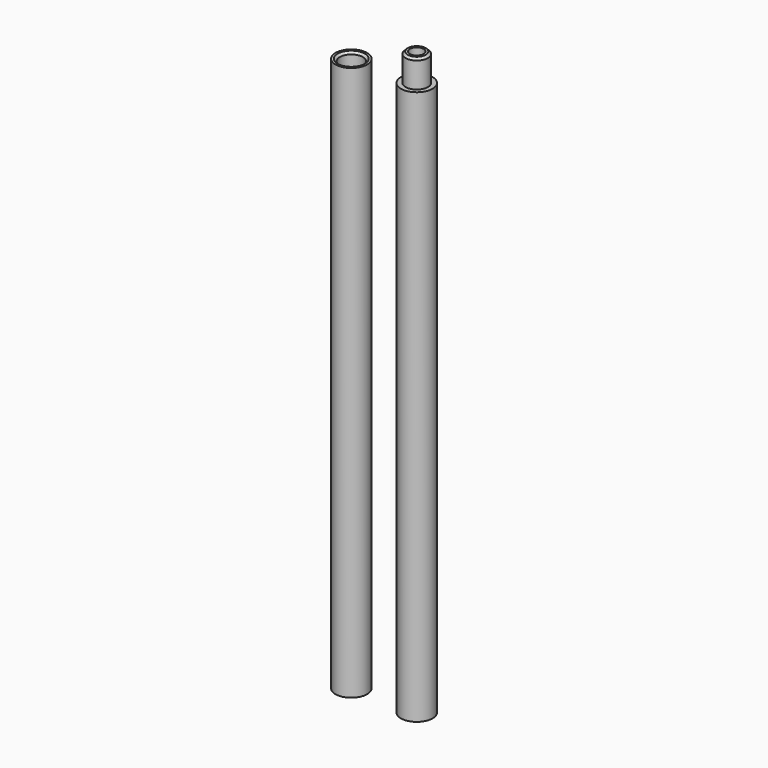
from build123d import *

# Parameters (mm, degrees)
F0_R     = 3.625
F0_R_2   = 2.625
F1_DEPTH = 127
F2_R     = 2.625
F2_R_2   = 1.575
F3_DEPTH = 6.35
F4_R     = 2.575
F4_R_2   = 1.575
F5_DEPTH = 6.35
F6_SIZE  = 0.5


with BuildPart() as f1:
    # F0 (on Top) → F1 (new body)
    with BuildSketch(Plane.XY):
        with Locations((-7.5, 0)):
            Circle(F0_R)
        with Locations((-7.5, 0)):
            Circle(F0_R_2, mode=Mode.SUBTRACT)
        with Locations((7.5, 0)):
            Circle(F0_R)
        with Locations((7.5, 0)):
            Circle(F0_R_2, mode=Mode.SUBTRACT)
    extrude(amount=F1_DEPTH)

    # F2 (on face) → F3 (join)
    with BuildSketch(Plane.XY.offset(127)):
        with Locations((7.5, 0)):
            Circle(F2_R)
        with Locations((7.5, 0)):
            Circle(F2_R_2, mode=Mode.SUBTRACT)
    extrude(amount=-F3_DEPTH)

    # F4 (on face) → F5 (join)
    with BuildSketch(Plane.XY.offset(127)):
        with Locations((7.5, 0)):
            Circle(F4_R)
        with Locations((7.5, 0)):
            Circle(F4_R_2, mode=Mode.SUBTRACT)
    extrude(amount=F5_DEPTH)

    # F6
    f6_edges = [f1.edges().sort_by_distance(p)[0] for p in [
        (4.925, 0, 133.35),
        (-10.125, 0, 127),
    ]]
    chamfer(f6_edges, length=F6_SIZE)


solid = f1.part
